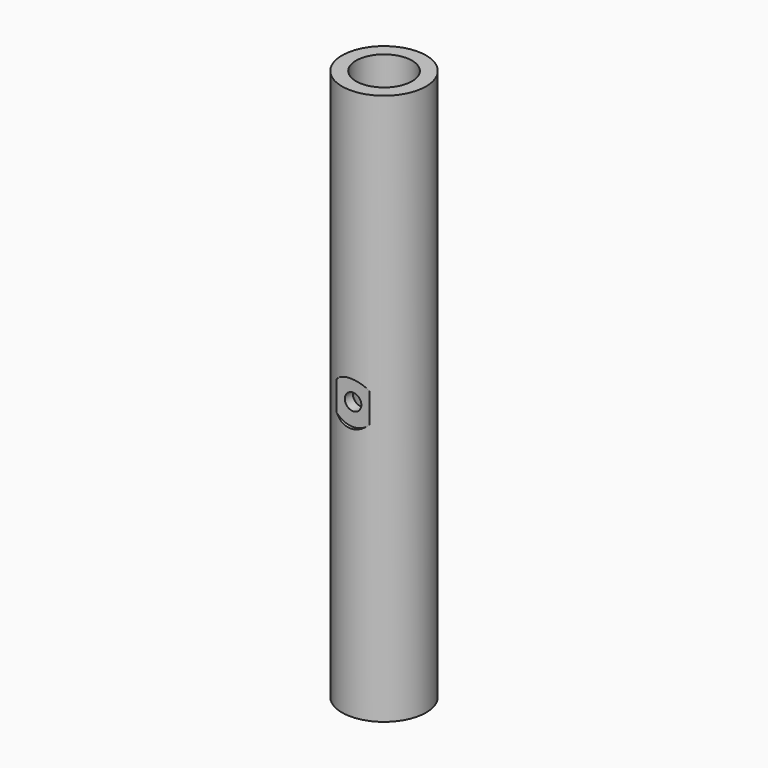
from build123d import *

# Parameters (mm, degrees)
F0_R      = 19.05
F0_R_2    = 12.7
F1_DEPTH  = 250
F2_R      = 3.75
F3_DEPTH  = 19.051
F4_DEPTH  = 19.051
F6_R      = 8
F7_DEPTH  = 32
F9_R      = 10
F10_DEPTH = 1.5


with BuildPart() as f1:
    # F0 (on Top) → F1 (new body)
    with BuildSketch(Plane.XY):
        Circle(F0_R)
        Circle(F0_R_2, mode=Mode.SUBTRACT)
    extrude(amount=F1_DEPTH)

    # F2 (on Front) → F3 (cut, through all)
    with BuildSketch(Plane.XZ):
        with Locations((0, 125)):
            Circle(F2_R)
    extrude(amount=-F3_DEPTH, mode=Mode.SUBTRACT)

    # F2 (on Front) → F4 (cut, through all)
    with BuildSketch(Plane.XZ):
        with Locations((0, 125)):
            Circle(F2_R)
    extrude(amount=F4_DEPTH, mode=Mode.SUBTRACT)

    # F6 (on offset) → F7 (cut)
    with BuildSketch(Plane.XZ.offset(-19.05)):
        with Locations((0, 125)):
            Circle(F6_R)
    extrude(amount=F7_DEPTH, mode=Mode.SUBTRACT)

    # F9 (on offset) → F10 (cut)
    with BuildSketch(Plane.XZ.offset(19.05)):
        with Locations((0, 125)):
            Circle(F9_R)
    extrude(amount=-F10_DEPTH, mode=Mode.SUBTRACT)


solid = f1.part
